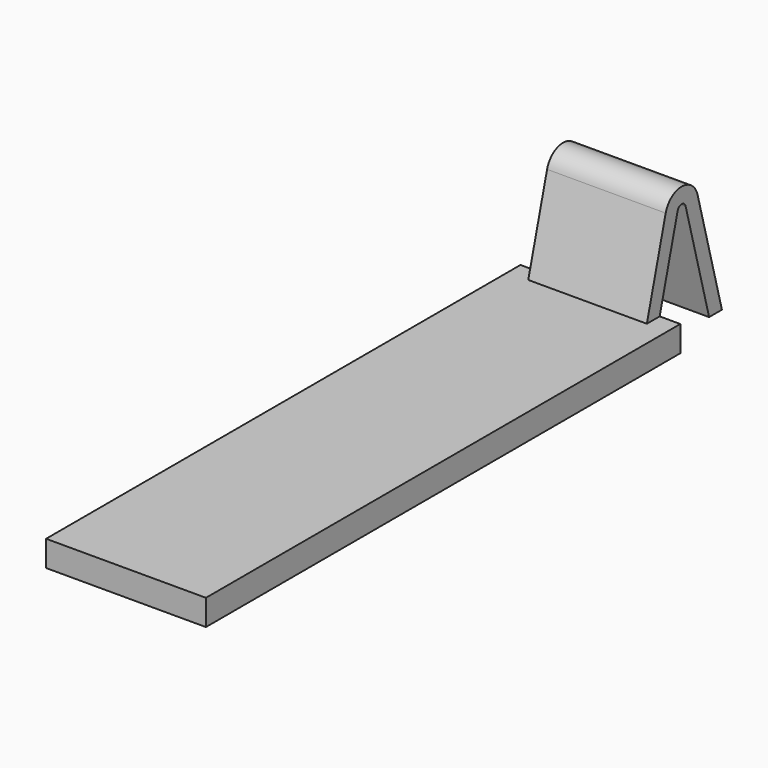
from build123d import *

# Parameters (mm, degrees)
F0_W     = 15.5
F0_H     = 57.5
F1_DEPTH = 2.5
F3_START = -2
F3_DEPTH = 11.5


with BuildPart() as f1:
    # F0 (on Top) → F1 (new body)
    with BuildSketch(Plane.XY):
        with Locations((7.75, 28.75)):
            Rectangle(F0_W, F0_H)
    extrude(amount=F1_DEPTH)

    # F2 (on face) → F3 (join)
    with BuildSketch(Plane.YZ.offset(15.5).offset(F3_START)):
        with BuildLine():
            Line((55.9470857294, 2.5), (57.5, 2.5))
            Line((57.5, 2.5), (59.6782687165, 10.6294095226))
            ThreePointArc((59.6782687165, 10.6294095226), (60.1612316297, 11), (60.6441945428, 10.6294095226))
            Line((60.6441945428, 10.6294095226), (63.4923362404, 0))
            Line((63.4923362404, 0), (65.045250511, 0))
            Line((65.045250511, 0), (62.0930832822, 11.0176380902))
            ThreePointArc((62.0930832822, 11.0176380902), (60.1612316297, 12.5), (58.2293799771, 11.0176380902))
            Line((58.2293799771, 11.0176380902), (55.9470857294, 2.5))
        make_face()
    extrude(amount=-F3_DEPTH)


solid = f1.part
